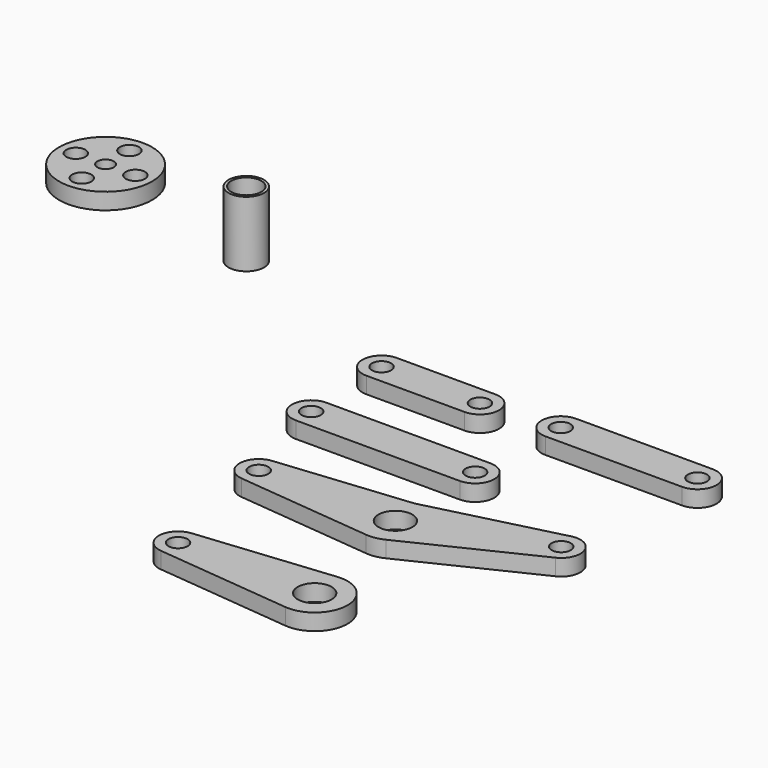
from build123d import *

# Parameters (mm, degrees)
F0_R     = 1.75
F0_R_2   = 3.1
F1_DEPTH = 3
F2_R     = 8.5
F2_R_2   = 1.75
F2_R_3   = 1.5
F3_DEPTH = 3
F4_DEPTH = 3
F2_R_4   = 3.25
F2_R_5   = 2.75
F5_DEPTH = 12


with BuildPart() as f1:
    # F0 (on Top) → F1 (new body)
    with BuildSketch(Plane.XY):
        with BuildLine():
            Line((18, 3.5), (0, 3.5))
            ThreePointArc((0, 3.5), (-3.5, 0), (0, -3.5))
            Line((0, -3.5), (18, -3.5))
            ThreePointArc((18, -3.5), (21.5, 0), (18, 3.5))
        make_face()
        Circle(F0_R, mode=Mode.SUBTRACT)
        with Locations((18, 0)):
            Circle(F0_R, mode=Mode.SUBTRACT)
        with BuildLine():
            Line((30.798049, -13.595002), (0.798049, -13.595002))
            ThreePointArc((0.798049, -13.595002), (-2.701951, -17.095002), (0.798049, -20.595002))
            Line((0.798049, -20.595002), (30.798049, -20.595002))
            ThreePointArc((30.798049, -20.595002), (34.298049, -17.095002), (30.798049, -13.595002))
        make_face()
        with Locations((0.798049, -17.095002)):
            Circle(F0_R, mode=Mode.SUBTRACT)
        with Locations((30.798049, -17.095002)):
            Circle(F0_R, mode=Mode.SUBTRACT)
        with BuildLine():
            Line((29.898118, -30.086758), (5.963541, -32.492274))
            ThreePointArc((5.963541, -32.492274), (2.813541, -35.97473), (5.963541, -39.457186))
            Line((5.963541, -39.457186), (30.713541, -41.944654))
            ThreePointArc((30.713541, -41.944654), (32.355431, -41.883576), (33.919191, -41.379412))
            Line((33.919191, -41.379412), (56.325819, -30.576957))
            ThreePointArc((56.325819, -30.576957), (58.094781, -26.227156), (53.943679, -24.032081))
            Line((53.943679, -24.032081), (30.33449, -30.010018))
            ThreePointArc((30.33449, -30.010018), (30.117723, -30.056455), (29.898118, -30.086758))
        make_face()
        with Locations((6.313541, -35.97473)):
            Circle(F0_R, mode=Mode.SUBTRACT)
        with Locations((31.313541, -35.97473)):
            Circle(F0_R_2, mode=Mode.SUBTRACT)
        with Locations((54.805857, -27.424226)):
            Circle(F0_R, mode=Mode.SUBTRACT)
        with BuildLine():
            Line((35.690217, -54.682968), (10.940217, -57.170437))
            ThreePointArc((10.940217, -57.170437), (7.790217, -60.652893), (10.940217, -64.135349))
            Line((10.940217, -64.135349), (35.690217, -66.622818))
            ThreePointArc((35.690217, -66.622818), (42.290217, -60.652893), (35.690217, -54.682968))
        make_face()
        with Locations((11.290217, -60.652893)):
            Circle(F0_R, mode=Mode.SUBTRACT)
        with Locations((36.290217, -60.652893)):
            Circle(F0_R_2, mode=Mode.SUBTRACT)
    extrude(amount=F1_DEPTH)


with BuildPart() as f3:
    # F2 (on Top) → F3 (new body)
    with BuildSketch(Plane.XY):
        with Locations((-69.917015, 24.287433)):
            Circle(F2_R)
        with Locations((-69.917015, 18.837433)):
            Circle(F2_R_2, mode=Mode.SUBTRACT)
        with Locations((-75.367015, 24.287433)):
            Circle(F2_R_2, mode=Mode.SUBTRACT)
        with Locations((-69.917015, 24.287433)):
            Circle(F2_R_3, mode=Mode.SUBTRACT)
        with Locations((-64.467015, 24.287433)):
            Circle(F2_R_2, mode=Mode.SUBTRACT)
        with Locations((-69.917015, 29.737433)):
            Circle(F2_R_2, mode=Mode.SUBTRACT)
    extrude(amount=F3_DEPTH)


with BuildPart() as f4:
    # F0 (on Top) → F4 (new body)
    with BuildSketch(Plane.XY):
        with BuildLine():
            Line((56.734147, 4.819935), (31.734147, 4.819935))
            ThreePointArc((31.734147, 4.819935), (28.234147, 1.319935), (31.734147, -2.180065))
            Line((31.734147, -2.180065), (56.734147, -2.180065))
            ThreePointArc((56.734147, -2.180065), (60.234147, 1.319935), (56.734147, 4.819935))
        make_face()
        with Locations((31.734147, 1.319935)):
            Circle(F0_R, mode=Mode.SUBTRACT)
        with Locations((56.734147, 1.319935)):
            Circle(F0_R, mode=Mode.SUBTRACT)
    extrude(amount=F4_DEPTH)


with BuildPart() as f5:
    # F2 (on Top) → F5 (new body)
    with BuildSketch(Plane.XY):
        with Locations((-39.155681, 18.01236)):
            Circle(F2_R_4)
        with Locations((-39.155681, 18.01236)):
            Circle(F2_R_5, mode=Mode.SUBTRACT)
    extrude(amount=F5_DEPTH)


solid = Compound([f1.part, f3.part, f4.part, f5.part])
